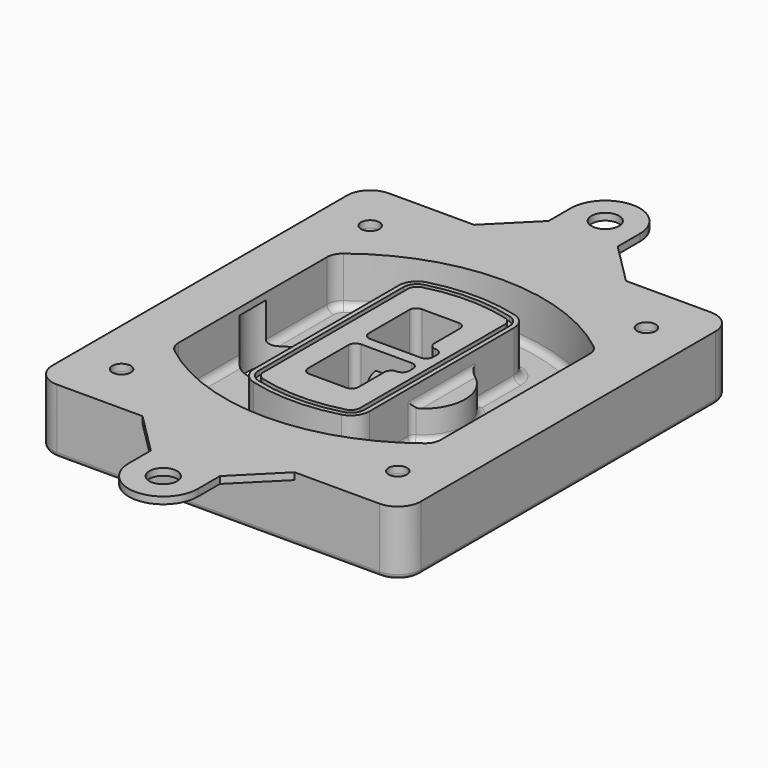
from build123d import *

# Parameters (mm, degrees)
F0_R      = 4
F1_DEPTH  = 25
F2_DEPTH  = 3
F3_DEPTH  = 18
F5_DEPTH  = 21
F6_DEPTH  = 2
F8_DEPTH  = 20
F9_DEPTH  = 16
F10_DEPTH = 25
F7_R      = 6
F7_R_2    = 4
F11_DEPTH = 6
F13_DEPTH = 9
F14_R     = 3
F15_R     = 2
F16_R     = 6
F16_R_2   = 4
F17_DEPTH = 3


with BuildPart() as f1:
    # F0 (on Top) → F1 (new body)
    with BuildSketch(Plane.XY):
        with BuildLine():
            ThreePointArc((-80, -80), (-77.0710678119, -87.0710678119), (-70, -90))
            Line((-70, -90), (70, -90))
            ThreePointArc((70, -90), (77.0710678119, -87.0710678119), (80, -80))
            Line((80, -80), (80, 80))
            ThreePointArc((80, 80), (77.0710678119, 87.0710678119), (70, 90))
            Line((70, 90), (-70, 90))
            ThreePointArc((-70, 90), (-77.0710678119, 87.0710678119), (-80, 80))
            Line((-80, 80), (-80, -80))
        make_face()
        with Locations((-60, -67.5)):
            Circle(F0_R, mode=Mode.SUBTRACT)
        with Locations((60, -67.5)):
            Circle(F0_R, mode=Mode.SUBTRACT)
        with Locations((-60, 67.5)):
            Circle(F0_R, mode=Mode.SUBTRACT)
        with BuildLine():
            ThreePointArc((-64, 40.2934422872), (-62.5820384798, 46.4328484224), (-58.6153846154, 51.3286200352))
            ThreePointArc((-58.6153846154, 51.3286200352), (0, 71.5), (58.6153846154, 51.3286200352))
            ThreePointArc((58.6153846154, 51.3286200352), (62.5820384798, 46.4328484224), (64, 40.2934422872))
            Line((64, 40.2934422872), (64, -40.2934422872))
            ThreePointArc((64, -40.2934422872), (62.5820384798, -46.4328484224), (58.6153846154, -51.3286200352))
            ThreePointArc((58.6153846154, -51.3286200352), (0, -71.5), (-58.6153846154, -51.3286200352))
            ThreePointArc((-58.6153846154, -51.3286200352), (-62.5820384798, -46.4328484224), (-64, -40.2934422872))
            Line((-64, -40.2934422872), (-64, 40.2934422872))
        make_face(mode=Mode.SUBTRACT)
        with Locations((60, 67.5)):
            Circle(F0_R, mode=Mode.SUBTRACT)
        with BuildLine():
            ThreePointArc((58.6153846154, 51.3286200352), (0, 71.5), (-58.6153846154, 51.3286200352))
            ThreePointArc((-58.6153846154, 51.3286200352), (-62.5820384798, 46.4328484224), (-64, 40.2934422872))
            Line((-64, 40.2934422872), (-64, -40.2934422872))
            ThreePointArc((-64, -40.2934422872), (-62.5820384798, -46.4328484224), (-58.6153846154, -51.3286200352))
            ThreePointArc((-58.6153846154, -51.3286200352), (0, -71.5), (58.6153846154, -51.3286200352))
            ThreePointArc((58.6153846154, -51.3286200352), (62.5820384798, -46.4328484224), (64, -40.2934422872))
            Line((64, -40.2934422872), (64, 40.2934422872))
            ThreePointArc((64, 40.2934422872), (62.5820384798, 46.4328484224), (58.6153846154, 51.3286200352))
        make_face()
        with BuildLine():
            Line((-60, -40.2934422872), (-60, 40.2934422872))
            ThreePointArc((-60, 40.2934422872), (-58.9871703427, 44.6787323838), (-56.1538461538, 48.1757121072))
            ThreePointArc((-56.1538461538, 48.1757121072), (0, 67.5), (56.1538461538, 48.1757121072))
            ThreePointArc((56.1538461538, 48.1757121072), (58.9871703427, 44.6787323838), (60, 40.2934422872))
            Line((60, 40.2934422872), (60, -40.2934422872))
            ThreePointArc((60, -40.2934422872), (58.9871703427, -44.6787323838), (56.1538461538, -48.1757121072))
            ThreePointArc((56.1538461538, -48.1757121072), (0, -67.5), (-56.1538461538, -48.1757121072))
            ThreePointArc((-56.1538461538, -48.1757121072), (-58.9871703427, -44.6787323838), (-60, -40.2934422872))
        make_face(mode=Mode.SUBTRACT)
        with BuildLine():
            ThreePointArc((-56.1538461538, 48.1757121072), (-58.9871703427, 44.6787323838), (-60, 40.2934422872))
            Line((-60, 40.2934422872), (-60, -40.2934422872))
            ThreePointArc((-60, -40.2934422872), (-58.9871703427, -44.6787323838), (-56.1538461538, -48.1757121072))
            ThreePointArc((-56.1538461538, -48.1757121072), (0, -67.5), (56.1538461538, -48.1757121072))
            ThreePointArc((56.1538461538, -48.1757121072), (58.9871703427, -44.6787323838), (60, -40.2934422872))
            Line((60, -40.2934422872), (60, 40.2934422872))
            ThreePointArc((60, 40.2934422872), (58.9871703427, 44.6787323838), (56.1538461538, 48.1757121072))
            ThreePointArc((56.1538461538, 48.1757121072), (0, 67.5), (-56.1538461538, 48.1757121072))
        make_face()
        with BuildLine():
            ThreePointArc((54.3076923077, 45.8110311612), (56.2910192399, 43.3631453548), (57, 40.2934422872))
            Line((57, 40.2934422872), (57, -40.2934422872))
            ThreePointArc((57, -40.2934422872), (56.2910192399, -43.3631453548), (54.3076923077, -45.8110311612))
            ThreePointArc((54.3076923077, -45.8110311612), (0, -64.5), (-54.3076923077, -45.8110311612))
            ThreePointArc((-54.3076923077, -45.8110311612), (-56.2910192399, -43.3631453548), (-57, -40.2934422872))
            Line((-57, -40.2934422872), (-57, 40.2934422872))
            ThreePointArc((-57, 40.2934422872), (-56.2910192399, 43.3631453548), (-54.3076923077, 45.8110311612))
            ThreePointArc((-54.3076923077, 45.8110311612), (0, 64.5), (54.3076923077, 45.8110311612))
        make_face(mode=Mode.SUBTRACT)
        with BuildLine():
            Line((57, -40.2934422872), (57, 40.2934422872))
            ThreePointArc((57, 40.2934422872), (56.2910192399, 43.3631453548), (54.3076923077, 45.8110311612))
            ThreePointArc((54.3076923077, 45.8110311612), (0, 64.5), (-54.3076923077, 45.8110311612))
            ThreePointArc((-54.3076923077, 45.8110311612), (-56.2910192399, 43.3631453548), (-57, 40.2934422872))
            Line((-57, 40.2934422872), (-57, -40.2934422872))
            ThreePointArc((-57, -40.2934422872), (-56.2910192399, -43.3631453548), (-54.3076923077, -45.8110311612))
            ThreePointArc((-54.3076923077, -45.8110311612), (0, -64.5), (54.3076923077, -45.8110311612))
            ThreePointArc((54.3076923077, -45.8110311612), (56.2910192399, -43.3631453548), (57, -40.2934422872))
        make_face()
    extrude(amount=-F1_DEPTH)

    # F0 (on Top) → F2 (join)
    with BuildSketch(Plane.XY):
        with BuildLine():
            ThreePointArc((-56.1538461538, 48.1757121072), (-58.9871703427, 44.6787323838), (-60, 40.2934422872))
            Line((-60, 40.2934422872), (-60, -40.2934422872))
            ThreePointArc((-60, -40.2934422872), (-58.9871703427, -44.6787323838), (-56.1538461538, -48.1757121072))
            ThreePointArc((-56.1538461538, -48.1757121072), (0, -67.5), (56.1538461538, -48.1757121072))
            ThreePointArc((56.1538461538, -48.1757121072), (58.9871703427, -44.6787323838), (60, -40.2934422872))
            Line((60, -40.2934422872), (60, 40.2934422872))
            ThreePointArc((60, 40.2934422872), (58.9871703427, 44.6787323838), (56.1538461538, 48.1757121072))
            ThreePointArc((56.1538461538, 48.1757121072), (0, 67.5), (-56.1538461538, 48.1757121072))
        make_face()
        with BuildLine():
            ThreePointArc((54.3076923077, 45.8110311612), (56.2910192399, 43.3631453548), (57, 40.2934422872))
            Line((57, 40.2934422872), (57, -40.2934422872))
            ThreePointArc((57, -40.2934422872), (56.2910192399, -43.3631453548), (54.3076923077, -45.8110311612))
            ThreePointArc((54.3076923077, -45.8110311612), (0, -64.5), (-54.3076923077, -45.8110311612))
            ThreePointArc((-54.3076923077, -45.8110311612), (-56.2910192399, -43.3631453548), (-57, -40.2934422872))
            Line((-57, -40.2934422872), (-57, 40.2934422872))
            ThreePointArc((-57, 40.2934422872), (-56.2910192399, 43.3631453548), (-54.3076923077, 45.8110311612))
            ThreePointArc((-54.3076923077, 45.8110311612), (0, 64.5), (54.3076923077, 45.8110311612))
        make_face(mode=Mode.SUBTRACT)
    extrude(amount=F2_DEPTH)

    # F0 (on Top) → F3 (cut)
    with BuildSketch(Plane.XY):
        with BuildLine():
            Line((57, -40.2934422872), (57, 40.2934422872))
            ThreePointArc((57, 40.2934422872), (56.2910192399, 43.3631453548), (54.3076923077, 45.8110311612))
            ThreePointArc((54.3076923077, 45.8110311612), (0, 64.5), (-54.3076923077, 45.8110311612))
            ThreePointArc((-54.3076923077, 45.8110311612), (-56.2910192399, 43.3631453548), (-57, 40.2934422872))
            Line((-57, 40.2934422872), (-57, -40.2934422872))
            ThreePointArc((-57, -40.2934422872), (-56.2910192399, -43.3631453548), (-54.3076923077, -45.8110311612))
            ThreePointArc((-54.3076923077, -45.8110311612), (0, -64.5), (54.3076923077, -45.8110311612))
            ThreePointArc((54.3076923077, -45.8110311612), (56.2910192399, -43.3631453548), (57, -40.2934422872))
        make_face()
    extrude(amount=-F3_DEPTH, mode=Mode.SUBTRACT)

    # F4 (on face) → F5 (join, through all)
    with BuildSketch(Plane.XY.offset(3)):
        with BuildLine():
            ThreePointArc((-25, -39.2465276821), (-23.3511545998, -44.1109737193), (-19.0842911877, -46.9702398883))
            ThreePointArc((-19.0842911877, -46.9702398883), (0, -49.5), (19.0842911877, -46.9702398883))
            ThreePointArc((19.0842911877, -46.9702398883), (23.3511545998, -44.1109737193), (25, -39.2465276821))
            Line((25, -39.2465276821), (25, 39.2465276821))
            ThreePointArc((25, 39.2465276821), (23.3511545998, 44.1109737193), (19.0842911877, 46.9702398883))
            ThreePointArc((19.0842911877, 46.9702398883), (0, 49.5), (-19.0842911877, 46.9702398883))
            ThreePointArc((-19.0842911877, 46.9702398883), (-23.3511545998, 44.1109737193), (-25, 39.2465276821))
            Line((-25, 39.2465276821), (-25, -39.2465276821))
        make_face()
        with BuildLine():
            ThreePointArc((18.5632183908, 45.0393118368), (21.7633659499, 42.89486221), (23, 39.2465276821))
            Line((23, 39.2465276821), (23, -39.2465276821))
            ThreePointArc((23, -39.2465276821), (21.7633659499, -42.89486221), (18.5632183908, -45.0393118368))
            ThreePointArc((18.5632183908, -45.0393118368), (0, -47.5), (-18.5632183908, -45.0393118368))
            ThreePointArc((-18.5632183908, -45.0393118368), (-21.7633659499, -42.89486221), (-23, -39.2465276821))
            Line((-23, -39.2465276821), (-23, 39.2465276821))
            ThreePointArc((-23, 39.2465276821), (-21.7633659499, 42.89486221), (-18.5632183908, 45.0393118368))
            ThreePointArc((-18.5632183908, 45.0393118368), (0, 47.5), (18.5632183908, 45.0393118368))
        make_face(mode=Mode.SUBTRACT)
        with BuildLine():
            Line((23, -39.2465276821), (23, 39.2465276821))
            ThreePointArc((23, 39.2465276821), (21.7633659499, 42.89486221), (18.5632183908, 45.0393118368))
            ThreePointArc((18.5632183908, 45.0393118368), (0, 47.5), (-18.5632183908, 45.0393118368))
            ThreePointArc((-18.5632183908, 45.0393118368), (-21.7633659499, 42.89486221), (-23, 39.2465276821))
            Line((-23, 39.2465276821), (-23, -39.2465276821))
            ThreePointArc((-23, -39.2465276821), (-21.7633659499, -42.89486221), (-18.5632183908, -45.0393118368))
            ThreePointArc((-18.5632183908, -45.0393118368), (0, -47.5), (18.5632183908, -45.0393118368))
            ThreePointArc((18.5632183908, -45.0393118368), (21.7633659499, -42.89486221), (23, -39.2465276821))
        make_face()
        with BuildLine():
            ThreePointArc((18.0421455939, 43.1083837852), (20.1755772999, 41.6787507007), (21, 39.2465276821))
            Line((21, 39.2465276821), (21, -39.2465276821))
            ThreePointArc((21, -39.2465276821), (20.1755772999, -41.6787507007), (18.0421455939, -43.1083837852))
            ThreePointArc((18.0421455939, -43.1083837852), (0, -45.5), (-18.0421455939, -43.1083837852))
            ThreePointArc((-18.0421455939, -43.1083837852), (-20.1755772999, -41.6787507007), (-21, -39.2465276821))
            Line((-21, -39.2465276821), (-21, 39.2465276821))
            ThreePointArc((-21, 39.2465276821), (-20.1755772999, 41.6787507007), (-18.0421455939, 43.1083837852))
            ThreePointArc((-18.0421455939, 43.1083837852), (0, 45.5), (18.0421455939, 43.1083837852))
        make_face(mode=Mode.SUBTRACT)
        with BuildLine():
            Line((21, -39.2465276821), (21, 39.2465276821))
            ThreePointArc((21, 39.2465276821), (20.1755772999, 41.6787507007), (18.0421455939, 43.1083837852))
            ThreePointArc((18.0421455939, 43.1083837852), (0, 45.5), (-18.0421455939, 43.1083837852))
            ThreePointArc((-18.0421455939, 43.1083837852), (-20.1755772999, 41.6787507007), (-21, 39.2465276821))
            Line((-21, 39.2465276821), (-21, -39.2465276821))
            ThreePointArc((-21, -39.2465276821), (-20.1755772999, -41.6787507007), (-18.0421455939, -43.1083837852))
            ThreePointArc((-18.0421455939, -43.1083837852), (0, -45.5), (18.0421455939, -43.1083837852))
            ThreePointArc((18.0421455939, -43.1083837852), (20.1755772999, -41.6787507007), (21, -39.2465276821))
        make_face()
        with BuildLine():
            Line((-8, -2.5), (14, -2.5))
            ThreePointArc((14, -2.5), (16.1213203436, -3.3786796564), (17, -5.5))
            Line((17, -5.5), (17, -7.5))
            ThreePointArc((17, -7.5), (16.1213203436, -9.6213203436), (14, -10.5))
            ThreePointArc((14, -10.5), (11.8786796564, -11.3786796564), (11, -13.5))
            Line((11, -13.5), (11, -27.5))
            ThreePointArc((11, -27.5), (10.1213203436, -29.6213203436), (8, -30.5))
            Line((8, -30.5), (-8, -30.5))
            ThreePointArc((-8, -30.5), (-10.1213203436, -29.6213203436), (-11, -27.5))
            Line((-11, -27.5), (-11, -5.5))
            ThreePointArc((-11, -5.5), (-10.1213203436, -3.3786796564), (-8, -2.5))
        make_face(mode=Mode.SUBTRACT)
        with BuildLine():
            ThreePointArc((-8, 2.5), (-10.1213203436, 3.3786796564), (-11, 5.5))
            Line((-11, 5.5), (-11, 27.5))
            ThreePointArc((-11, 27.5), (-10.1213203436, 29.6213203436), (-8, 30.5))
            Line((-8, 30.5), (8, 30.5))
            ThreePointArc((8, 30.5), (10.1213203436, 29.6213203436), (11, 27.5))
            Line((11, 27.5), (11, 13.5))
            ThreePointArc((11, 13.5), (11.8786796564, 11.3786796564), (14, 10.5))
            ThreePointArc((14, 10.5), (16.1213203436, 9.6213203436), (17, 7.5))
            Line((17, 7.5), (17, 5.5))
            ThreePointArc((17, 5.5), (16.1213203436, 3.3786796564), (14, 2.5))
            Line((14, 2.5), (-8, 2.5))
        make_face(mode=Mode.SUBTRACT)
    extrude(amount=-F5_DEPTH)

    # F4 (on face) → F6 (cut)
    with BuildSketch(Plane.XY.offset(3)):
        with BuildLine():
            Line((23, -39.2465276821), (23, 39.2465276821))
            ThreePointArc((23, 39.2465276821), (21.7633659499, 42.89486221), (18.5632183908, 45.0393118368))
            ThreePointArc((18.5632183908, 45.0393118368), (0, 47.5), (-18.5632183908, 45.0393118368))
            ThreePointArc((-18.5632183908, 45.0393118368), (-21.7633659499, 42.89486221), (-23, 39.2465276821))
            Line((-23, 39.2465276821), (-23, -39.2465276821))
            ThreePointArc((-23, -39.2465276821), (-21.7633659499, -42.89486221), (-18.5632183908, -45.0393118368))
            ThreePointArc((-18.5632183908, -45.0393118368), (0, -47.5), (18.5632183908, -45.0393118368))
            ThreePointArc((18.5632183908, -45.0393118368), (21.7633659499, -42.89486221), (23, -39.2465276821))
        make_face()
        with BuildLine():
            ThreePointArc((18.0421455939, 43.1083837852), (20.1755772999, 41.6787507007), (21, 39.2465276821))
            Line((21, 39.2465276821), (21, -39.2465276821))
            ThreePointArc((21, -39.2465276821), (20.1755772999, -41.6787507007), (18.0421455939, -43.1083837852))
            ThreePointArc((18.0421455939, -43.1083837852), (0, -45.5), (-18.0421455939, -43.1083837852))
            ThreePointArc((-18.0421455939, -43.1083837852), (-20.1755772999, -41.6787507007), (-21, -39.2465276821))
            Line((-21, -39.2465276821), (-21, 39.2465276821))
            ThreePointArc((-21, 39.2465276821), (-20.1755772999, 41.6787507007), (-18.0421455939, 43.1083837852))
            ThreePointArc((-18.0421455939, 43.1083837852), (0, 45.5), (18.0421455939, 43.1083837852))
        make_face(mode=Mode.SUBTRACT)
    extrude(amount=-F6_DEPTH, mode=Mode.SUBTRACT)

    # F7 (on face) → F8 (join)
    with BuildSketch(Plane(origin=(0, 0, -25), x_dir=(1, 0, 0), z_dir=(0, 0, -1))):
        with BuildLine():
            ThreePointArc((3.28842436, 0), (16.7567035675, 13.4682792075), (30.224982775, 0))
            Line((30.224982775, 0), (35.224982775, 0))
            ThreePointArc((35.224982775, 0), (16.7567035675, 18.4682792075), (-1.71157564, 0))
            Line((-1.71157564, 0), (3.28842436, 0))
        make_face()
        with BuildLine():
            Line((3.28842436, 0), (30.224982775, 0))
            ThreePointArc((30.224982775, 0), (16.7567035675, 13.4682792075), (3.28842436, 0))
        make_face()
        with BuildLine():
            ThreePointArc((3.28842436, 0), (16.7567035675, -13.4682792075), (30.224982775, 0))
            Line((30.224982775, 0), (3.28842436, 0))
        make_face()
        with BuildLine():
            Line((35.224982775, 0), (30.224982775, 0))
            ThreePointArc((30.224982775, 0), (16.7567035675, -13.4682792075), (3.28842436, 0))
            Line((3.28842436, 0), (-1.71157564, 0))
            ThreePointArc((-1.71157564, 0), (16.7567035675, -18.4682792075), (35.224982775, 0))
        make_face()
    extrude(amount=-F8_DEPTH)

    # F7 (on face) → F9 (cut)
    with BuildSketch(Plane(origin=(0, 0, -25), x_dir=(1, 0, 0), z_dir=(0, 0, -1))):
        with BuildLine():
            Line((3.28842436, 0), (30.224982775, 0))
            ThreePointArc((30.224982775, 0), (16.7567035675, 13.4682792075), (3.28842436, 0))
        make_face()
        with BuildLine():
            ThreePointArc((3.28842436, 0), (16.7567035675, -13.4682792075), (30.224982775, 0))
            Line((30.224982775, 0), (3.28842436, 0))
        make_face()
    extrude(amount=-F9_DEPTH, mode=Mode.SUBTRACT)

    # F7 (on face) → F10 (cut)
    with BuildSketch(Plane(origin=(0, 0, -25), x_dir=(1, 0, 0), z_dir=(0, 0, -1))):
        with BuildLine():
            Line((-59.0318229325, 0), (-32.0952645175, 0))
            ThreePointArc((-32.0952645175, 0), (-45.563543725, 13.4682792075), (-59.0318229325, 0))
        make_face()
        with BuildLine():
            ThreePointArc((-59.0318229325, 0), (-45.563543725, -13.4682792075), (-32.0952645175, 0))
            Line((-32.0952645175, 0), (-59.0318229325, 0))
        make_face()
    extrude(amount=-F10_DEPTH, mode=Mode.SUBTRACT)

    # F7 (on face) → F11 (cut)
    with BuildSketch(Plane(origin=(0, 0, -25), x_dir=(1, 0, 0), z_dir=(0, 0, -1))):
        with Locations((60, -67.5)):
            Circle(F7_R)
        with Locations((60, -67.5)):
            Circle(F7_R_2, mode=Mode.SUBTRACT)
        with Locations((60, -67.5)):
            Circle(F7_R)
        with Locations((60, -67.5)):
            Circle(F7_R_2, mode=Mode.SUBTRACT)
        with Locations((-60, -67.5)):
            Circle(F7_R)
        with Locations((-60, -67.5)):
            Circle(F7_R_2, mode=Mode.SUBTRACT)
        with Locations((-60, -67.5)):
            Circle(F7_R)
        with Locations((-60, -67.5)):
            Circle(F7_R_2, mode=Mode.SUBTRACT)
        with Locations((-60, 67.5)):
            Circle(F7_R)
        with Locations((-60, 67.5)):
            Circle(F7_R_2, mode=Mode.SUBTRACT)
        with Locations((-60, 67.5)):
            Circle(F7_R)
        with Locations((-60, 67.5)):
            Circle(F7_R_2, mode=Mode.SUBTRACT)
        with Locations((60, 67.5)):
            Circle(F7_R)
        with Locations((60, 67.5)):
            Circle(F7_R_2, mode=Mode.SUBTRACT)
        with Locations((60, 67.5)):
            Circle(F7_R)
        with Locations((60, 67.5)):
            Circle(F7_R_2, mode=Mode.SUBTRACT)
    extrude(amount=-F11_DEPTH, mode=Mode.SUBTRACT)

    # F12 (on face) → F13 (cut, through all)
    with BuildSketch(Plane(origin=(0, 0, -9), x_dir=(1, 0, 0), z_dir=(0, 0, -1))):
        with BuildLine():
            Line((11, 13.5), (11, 17.5481537753))
            ThreePointArc((11, 17.5481537753), (2.5696536419, 11.8239143813), (-1.5415842455, 2.5))
            Line((-1.5415842455, 2.5), (3.5224848595, 2.5))
            ThreePointArc((3.5224848595, 2.5), (6.1857188154, 8.3455872281), (11.2536447004, 12.2927168648))
            ThreePointArc((11.2536447004, 12.2927168648), (11.0640958889, 12.8831798879), (11, 13.5))
        make_face()
        with BuildLine():
            ThreePointArc((11.2536447004, -12.2927168648), (6.1857188154, -8.3455872281), (3.5224848595, -2.5))
            Line((3.5224848595, -2.5), (-1.5415842455, -2.5))
            ThreePointArc((-1.5415842455, -2.5), (2.5696536419, -11.8239143813), (11, -17.5481537753))
            Line((11, -17.5481537753), (11, -13.5))
            ThreePointArc((11, -13.5), (11.0640958889, -12.8831798879), (11.2536447004, -12.2927168648))
        make_face()
        with BuildLine():
            ThreePointArc((11.2536447004, 12.2927168648), (6.1857188154, 8.3455872281), (3.5224848595, 2.5))
            Line((3.5224848595, 2.5), (14, 2.5))
            ThreePointArc((14, 2.5), (16.1213203436, 3.3786796564), (17, 5.5))
            Line((17, 5.5), (17, 7.5))
            ThreePointArc((17, 7.5), (16.1213203436, 9.6213203436), (14, 10.5))
            ThreePointArc((14, 10.5), (12.3601599782, 10.9878446101), (11.2536447004, 12.2927168648))
        make_face()
        with BuildLine():
            Line((14, -2.5), (3.5224848595, -2.5))
            ThreePointArc((3.5224848595, -2.5), (6.1857188154, -8.3455872281), (11.2536447004, -12.2927168648))
            ThreePointArc((11.2536447004, -12.2927168648), (12.3601599782, -10.9878446101), (14, -10.5))
            ThreePointArc((14, -10.5), (16.1213203436, -9.6213203436), (17, -7.5))
            Line((17, -7.5), (17, -5.5))
            ThreePointArc((17, -5.5), (16.1213203436, -3.3786796564), (14, -2.5))
        make_face()
    extrude(amount=F13_DEPTH, mode=Mode.SUBTRACT)

    # F14
    f14_edges = [f1.edges().sort_by_distance(p)[0] for p in [
        (-57, -23.703476, -18),
        (-57, 23.703476, -18),
        (25, 0, -5),
        (25, 16.526506, -11.5),
        (25, -16.526506, -11.5),
        (25, -27.886517, -18),
        (35.224983, 0, -18),
    ]]
    fillet(f14_edges, radius=F14_R)

    # F15
    f15_edges = [f1.edges().sort_by_distance(p)[0] for p in [
        (0, -90, -25),
    ]]
    fillet(f15_edges, radius=F15_R)

    # F16 (on face) → F17 (join, through all)
    with BuildSketch(Plane.XY):
        with BuildLine():
            Line((-14.880124592, 107.9981219591), (-32.8782465511, 90))
            Line((-32.8782465511, 90), (33.1179973671, 90))
            Line((33.1179973671, 90), (15.119875408, 107.9981219591))
            Line((15.119875408, 107.9981219591), (15.119875408, 119.9981219591))
            ThreePointArc((15.119875408, 119.9981219591), (0.119875408, 134.9981219591), (-14.880124592, 119.9981219591))
            Line((-14.880124592, 119.9981219591), (-14.880124592, 107.9981219591))
        make_face()
        with Locations((0.119875408, 119.9981219591)):
            Circle(F16_R, mode=Mode.SUBTRACT)
        with BuildLine():
            Line((33.1179973671, -90), (-32.8782465511, -90))
            Line((-32.8782465511, -90), (-14.880124592, -107.9981219591))
            Line((-14.880124592, -107.9981219591), (-14.880124592, -119.9981219591))
            ThreePointArc((-14.880124592, -119.9981219591), (0.119875408, -134.9981219591), (15.119875408, -119.9981219591))
            Line((15.119875408, -119.9981219591), (15.119875408, -107.9981219591))
            Line((15.119875408, -107.9981219591), (33.1179973671, -90))
        make_face()
        with Locations((0.119875408, -119.9981219591)):
            Circle(F16_R, mode=Mode.SUBTRACT)
        with BuildLine():
            Line((33.1179973671, 90), (-32.8782465511, 90))
            Line((-32.8782465511, 90), (-70, 90))
            ThreePointArc((-70, 90), (-77.0710678119, 87.0710678119), (-80, 80))
            Line((-80, 80), (-80, -80))
            ThreePointArc((-80, -80), (-77.0710678119, -87.0710678119), (-70, -90))
            Line((-70, -90), (-32.8782465511, -90))
            Line((-32.8782465511, -90), (33.1179973671, -90))
            Line((33.1179973671, -90), (70, -90))
            ThreePointArc((70, -90), (77.0710678119, -87.0710678119), (80, -80))
            Line((80, -80), (80, 80))
            ThreePointArc((80, 80), (77.0710678119, 87.0710678119), (70, 90))
            Line((70, 90), (33.1179973671, 90))
        make_face()
        with Locations((-60, -67.5)):
            Circle(F16_R_2, mode=Mode.SUBTRACT)
        with Locations((60, -67.5)):
            Circle(F16_R_2, mode=Mode.SUBTRACT)
        with Locations((-60, 67.5)):
            Circle(F16_R_2, mode=Mode.SUBTRACT)
        with BuildLine():
            ThreePointArc((-60, 40.2934422872), (-58.9871703427, 44.6787323838), (-56.1538461538, 48.1757121072))
            ThreePointArc((-56.1538461538, 48.1757121072), (0, 67.5), (56.1538461538, 48.1757121072))
            ThreePointArc((56.1538461538, 48.1757121072), (58.9871703427, 44.6787323838), (60, 40.2934422872))
            Line((60, 40.2934422872), (60, -40.2934422872))
            ThreePointArc((60, -40.2934422872), (58.9871703427, -44.6787323838), (56.1538461538, -48.1757121072))
            ThreePointArc((56.1538461538, -48.1757121072), (0, -67.5), (-56.1538461538, -48.1757121072))
            ThreePointArc((-56.1538461538, -48.1757121072), (-58.9871703427, -44.6787323838), (-60, -40.2934422872))
            Line((-60, -40.2934422872), (-60, 40.2934422872))
        make_face(mode=Mode.SUBTRACT)
        with Locations((60, 67.5)):
            Circle(F16_R_2, mode=Mode.SUBTRACT)
    extrude(amount=F17_DEPTH)


solid = f1.part
